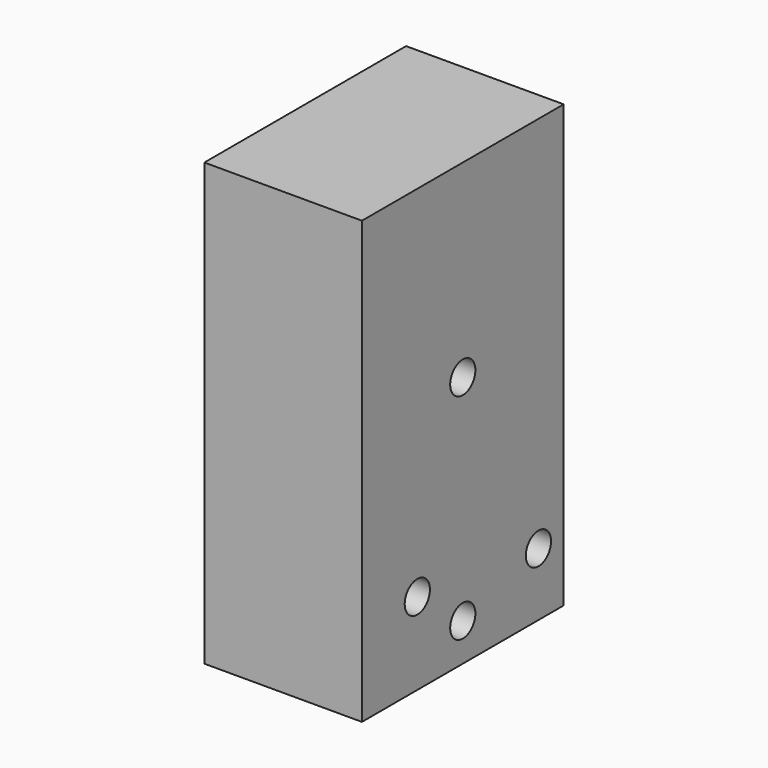
from build123d import *

# Parameters (mm, degrees)
F0_W     = 31.75
F0_H     = 88.9
F1_DEPTH = 50.8
F2_R     = 3.175
F3_DEPTH = 76.2
F4_R     = 3.175
F5_DEPTH = 25.4
F6_DEPTH = 38.1


with BuildPart() as f1:
    # F0 (on Front) → F1 (new body)
    with BuildSketch(Plane.XZ):
        with Locations((-52.468664, 69.122105)):
            Rectangle(F0_W, F0_H)
    extrude(amount=F1_DEPTH)

    # F2 (on face) → F3 (cut)
    with BuildSketch(Plane.YZ.offset(-36.593664)):
        with Locations((-25.4, 75.472105)):
            Circle(F2_R)
        with Locations((-25.4, 32.292105)):
            Circle(F2_R)
        with Locations((-6.35, 37.372105)):
            Circle(F2_R)
    extrude(amount=-F3_DEPTH, mode=Mode.SUBTRACT)

    # F4 (on face) → F5 (cut)
    with BuildSketch(Plane.YZ.offset(-36.593664)):
        with Locations((-36.850315, 41.194014)):
            Circle(F4_R)
    extrude(amount=-F5_DEPTH, mode=Mode.SUBTRACT)

    # F4 (on face) → F6 (cut)
    with BuildSketch(Plane.YZ.offset(-36.593664)):
        with Locations((-36.850315, 41.194014)):
            Circle(F4_R)
    extrude(amount=-F6_DEPTH, mode=Mode.SUBTRACT)


solid = f1.part
